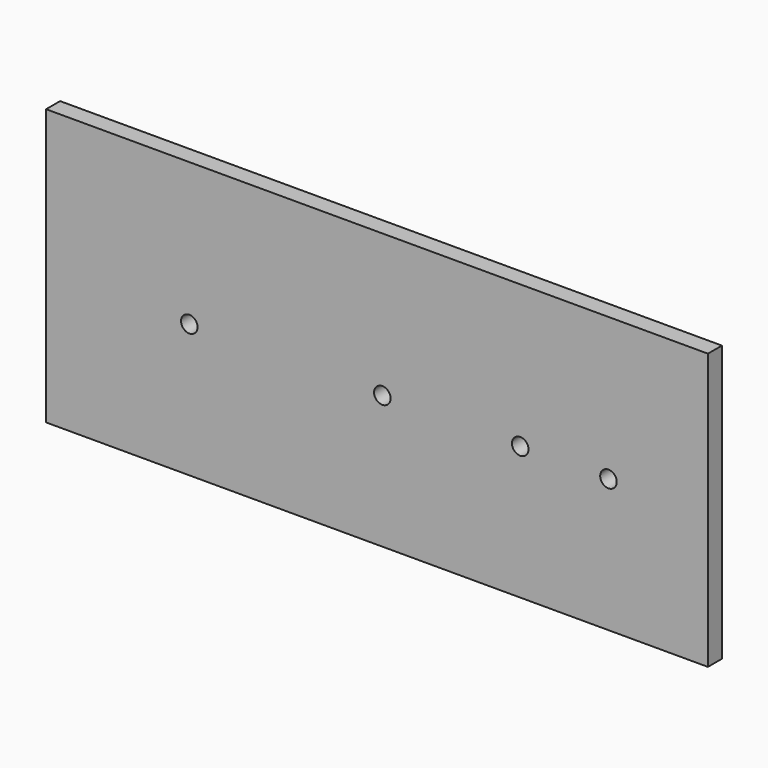
from build123d import *

# Parameters (mm, degrees)
F0_W     = 120
F0_H     = 50
F0_R     = 1.5
F1_DEPTH = 3.175


with BuildPart() as f1:
    # F0 (on Front) → F1 (new body)
    with BuildSketch(Plane.XZ):
        with Locations((-59.638985, 1.829996)):
            Rectangle(F0_W, F0_H)
        with Locations((-93.668086, 0.966691)):
            Circle(F0_R, mode=Mode.SUBTRACT)
        with BuildLine():
            ThreePointArc((-57.168086, 0.966691), (-58.668086, -0.533309), (-60.168086, 0.966691))
            ThreePointArc((-60.168086, 0.966691), (-58.668086, 2.466691), (-57.168086, 0.966691))
        make_face(mode=Mode.SUBTRACT)
        with BuildLine():
            ThreePointArc((-32.168086, 0.966691), (-33.668086, -0.533309), (-35.168086, 0.966691))
            ThreePointArc((-35.168086, 0.966691), (-33.668086, 2.466691), (-32.168086, 0.966691))
        make_face(mode=Mode.SUBTRACT)
        with BuildLine():
            ThreePointArc((-16.168086, 0.966691), (-17.668086, -0.533309), (-19.168086, 0.966691))
            ThreePointArc((-19.168086, 0.966691), (-17.668086, 2.466691), (-16.168086, 0.966691))
        make_face(mode=Mode.SUBTRACT)
    extrude(amount=F1_DEPTH)


solid = f1.part
